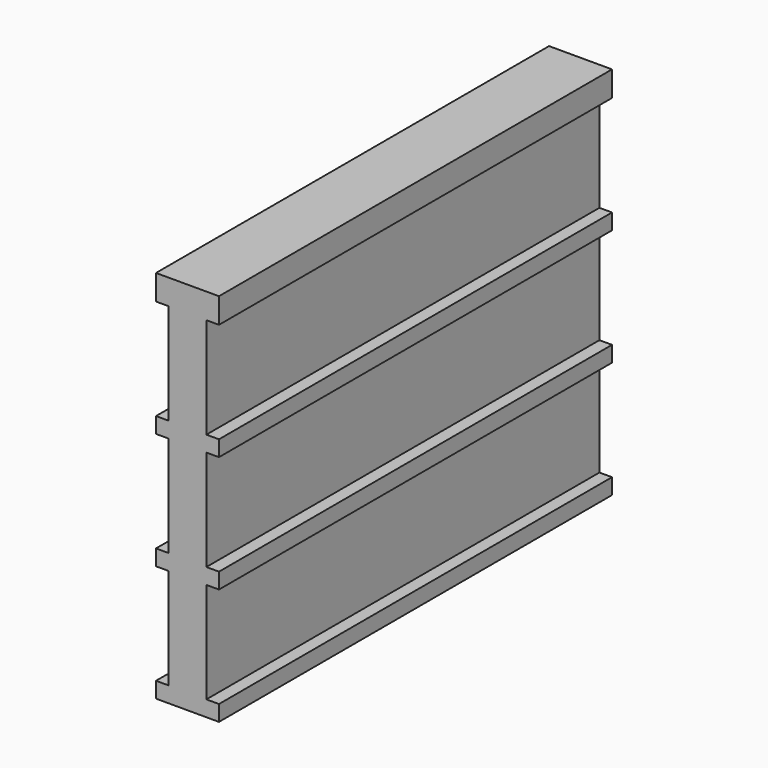
from build123d import *

# Parameters (mm, degrees)
F3_DEPTH = 156


with BuildPart() as f3:
    # F2 (on Front) → F3 (new body)
    with BuildSketch(Plane.XZ):
        Polygon((0, 5), (0, 0), (20, 0), (20, 5), (16, 5), (16, 37), (20, 37), (20, 42), (16, 42), (16, 74), (20, 74), (20, 79), (16, 79), (16, 111), (20, 111), (20, 119), (0, 119), (0, 111), (4, 111), (4, 79), (0, 79), (0, 74), (4, 74), (4, 42), (0, 42), (0, 37), (4, 37), (4, 5), align=None)
    extrude(amount=-F3_DEPTH)


solid = f3.part
